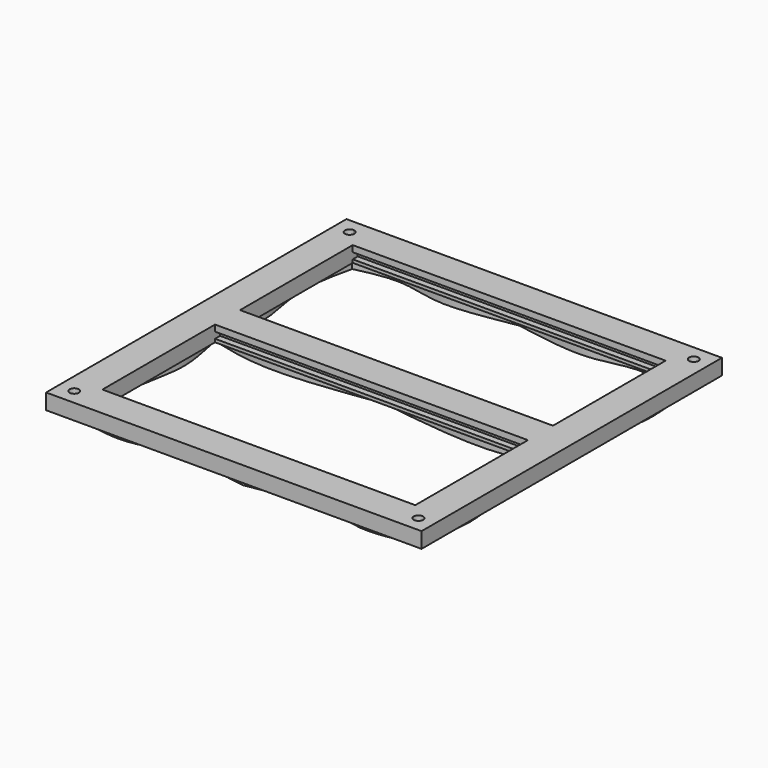
from build123d import *

# Parameters (mm, degrees)
F0_W      = 120
F0_H      = 120
F1_DEPTH  = 5
F2_W      = 100
F2_H      = 100
F3_DEPTH  = 5
F4_W      = 100
F4_H      = 10
F5_DEPTH  = 5
F7_DEPTH  = 2
F9_DEPTH  = 2
F11_DEPTH = 2
F13_DEPTH = 2
F14_R     = 1.5
F15_DEPTH = 4.25
F17_DEPTH = 3


with BuildPart() as f1:
    # F0 (on Top) → F1 (new body)
    with BuildSketch(Plane.XY):
        Rectangle(F0_W, F0_H)
    extrude(amount=F1_DEPTH)

    # F2 (on face) → F3 (cut)
    with BuildSketch(Plane.XY.offset(5)):
        Rectangle(F2_W, F2_H)
    extrude(amount=-F3_DEPTH, mode=Mode.SUBTRACT)

    # F4 (on face) → F5 (join)
    with BuildSketch(Plane.XY.offset(5)):
        Rectangle(F4_W, F4_H)
    extrude(amount=-F5_DEPTH)

    # F6 (on face) → F7 (cut)
    with BuildSketch(Plane(origin=(0, 5, 0), x_dir=(-1, 0, 0), z_dir=(0, 1, 0))):
        Polygon((-50, 1), (0, 1), (50, 1), (50, 3), (-50, 3), align=None)
    extrude(amount=-F7_DEPTH, mode=Mode.SUBTRACT)

    # F8 (on face) → F9 (cut)
    with BuildSketch(Plane.XZ.offset(-50)):
        Polygon((-50, 1), (0, 1), (50, 1), (50, 3), (-50, 3), align=None)
    extrude(amount=-F9_DEPTH, mode=Mode.SUBTRACT)

    # F10 (on face) → F11 (cut)
    with BuildSketch(Plane.XZ.offset(5)):
        Polygon((-50, 1), (0, 1), (50, 1), (50, 3), (-50, 3), align=None)
    extrude(amount=-F11_DEPTH, mode=Mode.SUBTRACT)

    # F12 (on face) → F13 (cut)
    with BuildSketch(Plane(origin=(0, -50, 0), x_dir=(-1, 0, 0), z_dir=(0, 1, 0))):
        Polygon((-50, 1), (0, 1), (50, 1), (50, 3), (-50, 3), align=None)
    extrude(amount=-F13_DEPTH, mode=Mode.SUBTRACT)

    # F14 (on face) → F15 (cut)
    with BuildSketch(Plane.XY.offset(5)):
        with BuildLine():
            ThreePointArc((-53.5, 55), (-53.9393398282, 56.0606601718), (-55, 56.5))
            ThreePointArc((-55, 56.5), (-56.0606601718, 53.9393398282), (-53.5, 55))
        make_face()
        with Locations((55, 55)):
            Circle(F14_R)
        with Locations((-55, -55)):
            Circle(F14_R)
        with Locations((55, -55)):
            Circle(F14_R)
    extrude(amount=-F15_DEPTH, mode=Mode.SUBTRACT)


with BuildPart() as f17:
    # F16 (on face) → F17 (new body)
    with BuildSketch(Plane(origin=(0, 0, 0), x_dir=(1, 0, 0), z_dir=(0, 0, -1))):
        with BuildLine():
            add(Edge.make_bspline(
                [(-52.0355137877, 50), (-53.4130465347, 43.9501603479), (-55.2130292926, 32.4194226977), (-50.0765832784, 16.1912205485), (-52.8507514546, 6.0722194825), (-54, 0)],
                knots=[0.0317306563, 0.0317306563, 0.0317306563, 0.0317306563, 0.3506085969, 0.6747541546, 1, 1, 1, 1], degree=3))
            Line((-52.0355137877, 50), (-54, 50))
            Line((-54, 50), (-54, 54))
            add(Edge.make_bspline(
                [(-54, 54), (-55.526996489, 47.3387527699), (-58.4509835735, 34.5833856113), (-52.3858314775, 18.4614750339), (-54.7791002275, 6.2754022767), (-56.0115501285, 0)],
                knots=[0, 0, 0, 0, 0.3464790875, 0.6634595325, 1, 1, 1, 1], degree=3))
            add(Edge.make_bspline(
                [(-54, -54), (-55.526996489, -47.3387527699), (-58.4509835735, -34.5833856113), (-52.3858314775, -18.4614750339), (-54.7791002275, -6.2754022767), (-56.0115501285, 0)],
                knots=[0, 0, 0, 0, 0.3464790875, 0.6634595325, 1, 1, 1, 1], degree=3))
            add(Edge.make_bspline(
                [(-54, -54), (-48.6784019716, -55.2474172449), (-38.3658382336, -57.6647493654), (-24.8794311821, -52.2991964671), (-9.0933080788, -54.940143262), (0, -56.4614124596)],
                knots=[0, 0, 0, 0, 0.3113206253, 0.6032988162, 1, 1, 1, 1], degree=3))
            add(Edge.make_bspline(
                [(54, -54), (48.6784019716, -55.2474172449), (38.3658382336, -57.6647493654), (24.8794311821, -52.2991964671), (9.0933080788, -54.940143262), (0, -56.4614124596)],
                knots=[0, 0, 0, 0, 0.3113206253, 0.6032988162, 1, 1, 1, 1], degree=3))
            add(Edge.make_bspline(
                [(54, -54), (55.526996489, -47.3387527699), (58.4509835735, -34.5833856113), (52.3858314775, -18.4614750339), (54.7791002275, -6.2754022767), (56.0115501285, 0)],
                knots=[0, 0, 0, 0, 0.3464790875, 0.6634595325, 1, 1, 1, 1], degree=3))
            add(Edge.make_bspline(
                [(54, 54), (55.526996489, 47.3387527699), (58.4509835735, 34.5833856113), (52.3858314775, 18.4614750339), (54.7791002275, 6.2754022767), (56.0115501285, 0)],
                knots=[0, 0, 0, 0, 0.3464790875, 0.6634595325, 1, 1, 1, 1], degree=3))
            Line((54, 54), (54, 50))
            Line((54, 50), (52.0355137877, 50))
            add(Edge.make_bspline(
                [(52.0355137877, 50), (53.4130465347, 43.9501603479), (55.2130292926, 32.4194226977), (50.0765832784, 16.1912205485), (52.8507514546, 6.0722194825), (54, 0)],
                knots=[0.0317306563, 0.0317306563, 0.0317306563, 0.0317306563, 0.3506085969, 0.6747541546, 1, 1, 1, 1], degree=3))
            add(Edge.make_bspline(
                [(51.6106709177, -51.8160055037), (53.2227134056, -45.0899877632), (55.3813531214, -32.9512287582), (50.0765832784, -16.1912205485), (52.8507514546, -6.0722194825), (54, 0)],
                knots=[0, 0, 0, 0, 0.3506085969, 0.6747541546, 1, 1, 1, 1], degree=3))
            add(Edge.make_bspline(
                [(51.6106709177, -51.8160055037), (46.3390114359, -53.051716828), (37.0479096559, -54.9210575543), (23.1436768388, -49.7702397152), (9.0144752829, -52.4735548912), (0, -53.9816357195)],
                knots=[0, 0, 0, 0, 0.3083991533, 0.6067379457, 1, 1, 1, 1], degree=3))
            add(Edge.make_bspline(
                [(-51.6106709177, -51.8160055037), (-46.3390114359, -53.051716828), (-37.0479096559, -54.9210575543), (-23.1436768388, -49.7702397152), (-9.0144752829, -52.4735548912), (0, -53.9816357195)],
                knots=[0, 0, 0, 0, 0.3083991533, 0.6067379457, 1, 1, 1, 1], degree=3))
            add(Edge.make_bspline(
                [(-51.6106709177, -51.8160055037), (-53.2227134056, -45.0899877632), (-55.3813531214, -32.9512287582), (-50.0765832784, -16.1912205485), (-52.8507514546, -6.0722194825), (-54, 0)],
                knots=[0, 0, 0, 0, 0.3506085969, 0.6747541546, 1, 1, 1, 1], degree=3))
        make_face()
        with BuildLine():
            Line((-54, 50), (-52.0355137877, 50))
            add(Edge.make_bspline(
                [(-51.6106709177, 51.8160055037), (-51.7565634218, 51.2072898041), (-51.8984393381, 50.6020027052), (-52.0355137877, 50)],
                knots=[0, 0, 0, 0, 0.0317306563, 0.0317306563, 0.0317306563, 0.0317306563], degree=3))
            add(Edge.make_bspline(
                [(-51.6106709177, 51.8160055037), (-46.3390114359, 53.051716828), (-37.0479096559, 54.9210575543), (-23.1436768388, 49.7702397152), (-9.0144752829, 52.4735548912), (0, 53.9816357195)],
                knots=[0, 0, 0, 0, 0.3083991533, 0.6067379457, 1, 1, 1, 1], degree=3))
            add(Edge.make_bspline(
                [(51.6106709177, 51.8160055037), (46.3390114359, 53.051716828), (37.0479096559, 54.9210575543), (23.1436768388, 49.7702397152), (9.0144752829, 52.4735548912), (0, 53.9816357195)],
                knots=[0, 0, 0, 0, 0.3083991533, 0.6067379457, 1, 1, 1, 1], degree=3))
            add(Edge.make_bspline(
                [(51.6106709177, 51.8160055037), (51.7565634218, 51.2072898041), (51.8984393381, 50.6020027052), (52.0355137877, 50)],
                knots=[0, 0, 0, 0, 0.0317306563, 0.0317306563, 0.0317306563, 0.0317306563], degree=3))
            Line((52.0355137877, 50), (54, 50))
            Line((54, 50), (54, 54))
            add(Edge.make_bspline(
                [(54, 54), (48.6784019716, 55.2474172449), (38.3658382336, 57.6647493654), (24.8794311821, 52.2991964671), (9.0933080788, 54.940143262), (0, 56.4614124596)],
                knots=[0, 0, 0, 0, 0.3113206253, 0.6032988162, 1, 1, 1, 1], degree=3))
            add(Edge.make_bspline(
                [(-54, 54), (-48.6784019716, 55.2474172449), (-38.3658382336, 57.6647493654), (-24.8794311821, 52.2991964671), (-9.0933080788, 54.940143262), (0, 56.4614124596)],
                knots=[0, 0, 0, 0, 0.3113206253, 0.6032988162, 1, 1, 1, 1], degree=3))
            Line((-54, 54), (-54, 50))
        make_face()
    extrude(amount=F17_DEPTH)


with BuildPart() as f17b:
    # F16 (on face) → F17, piece 2 (new body)
    with BuildSketch(Plane(origin=(0, 0, 0), x_dir=(1, 0, 0), z_dir=(0, 0, -1))):
        with BuildLine():
            add(Edge.make_bspline(
                [(54, 0), (48.2307514748, 1.4417043923), (34.6066518669, 4.8462941167), (12.6556506787, 1.7722894911), (0, 0)],
                knots=[0, 0, 0, 0, 0.4234590682, 1, 1, 1, 1], degree=3))
            add(Edge.make_bspline(
                [(54, 0), (48.2322619922, -1.5442535468), (34.6173411903, -5.1895109613), (12.6571285499, -1.8974394072), (0, 0)],
                knots=[0, 0, 0, 0, 0.423633607, 1, 1, 1, 1], degree=3))
        make_face()
    extrude(amount=F17_DEPTH)


with BuildPart() as f17c:
    # F16 (on face) → F17, piece 3 (new body)
    with BuildSketch(Plane(origin=(0, 0, 0), x_dir=(1, 0, 0), z_dir=(0, 0, -1))):
        with BuildLine():
            add(Edge.make_bspline(
                [(-54, 0), (-48.2307514748, 1.4417043923), (-34.6066518669, 4.8462941167), (-12.6556506787, 1.7722894911), (0, 0)],
                knots=[0, 0, 0, 0, 0.4234590682, 1, 1, 1, 1], degree=3))
            add(Edge.make_bspline(
                [(-54, 0), (-48.2322619922, -1.5442535468), (-34.6173411903, -5.1895109613), (-12.6571285499, -1.8974394072), (0, 0)],
                knots=[0, 0, 0, 0, 0.423633607, 1, 1, 1, 1], degree=3))
        make_face()
    extrude(amount=F17_DEPTH)


solid = Compound([f1.part, f17.part, f17b.part, f17c.part])
